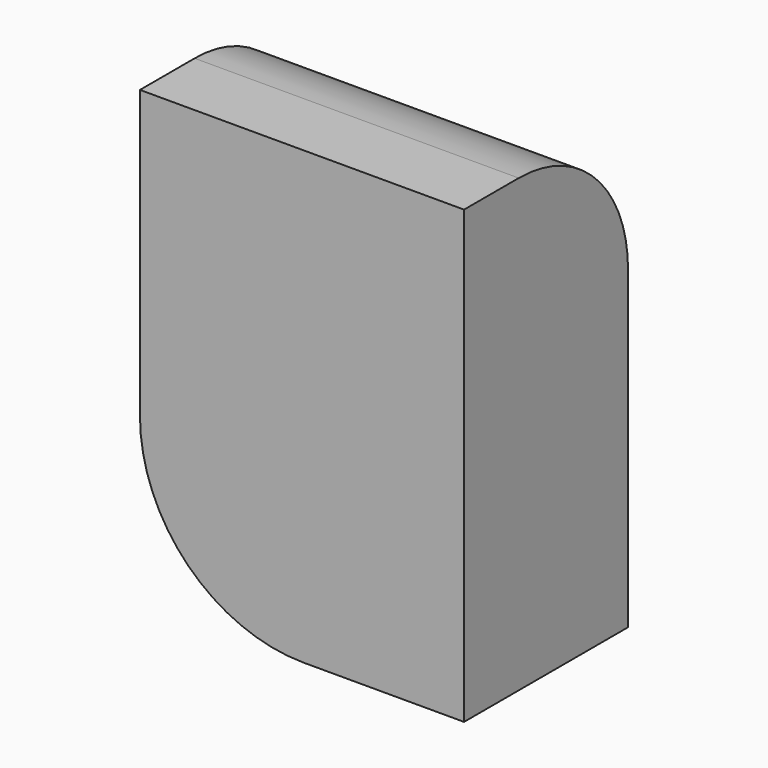
from build123d import *

# Parameters (mm, degrees)
SKETCH_W    = 23.713642
SKETCH_H    = 32.997763
PAD_DEPTH   = 15
FILLET_R    = 12
FILLET001_R = 10


with BuildPart() as part:
    # Sketch (on XZ_Plane of Origin) → Pad (new body)
    with BuildSketch(Plane.XZ):
        with Locations((3.5793, -3.187445)):
            Rectangle(SKETCH_W, SKETCH_H)
    extrude(amount=PAD_DEPTH)

    # Fillet
    fillet_edges = [part.edges().sort_by_distance(p)[0] for p in [
        (-8.277521, -7.5, -19.686327),
    ]]
    fillet(fillet_edges, radius=FILLET_R)

    # Fillet001
    fillet001_edges = [part.edges().sort_by_distance(p)[0] for p in [
        (3.5793, 0, 13.311436),
    ]]
    fillet(fillet001_edges, radius=FILLET001_R)


solid = part.part
